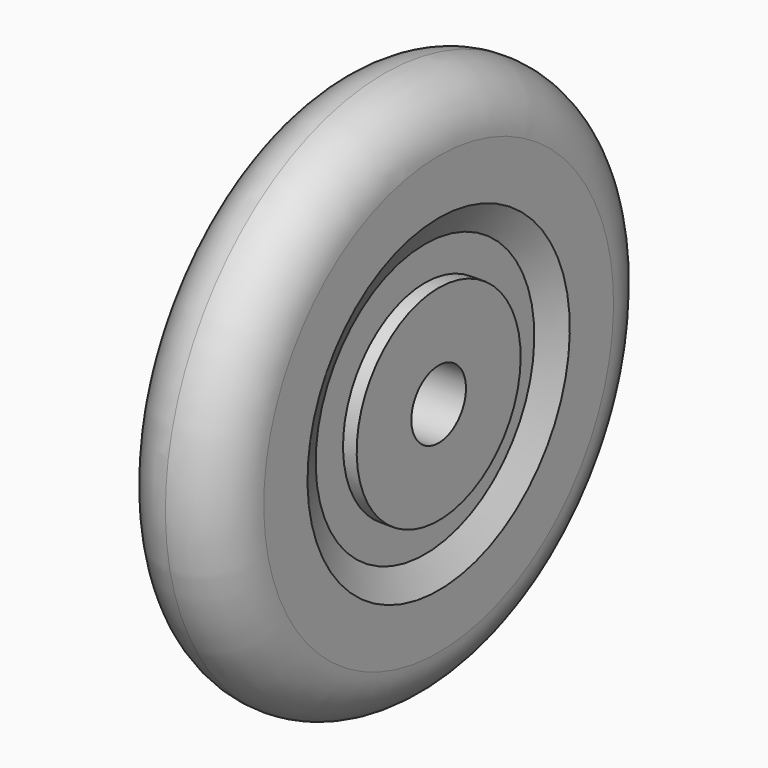
from build123d import *


with BuildPart() as f1:
    # F0 (on Front) → F1 (revolve)
    with BuildSketch(Plane.XZ):
        with BuildLine():
            Line((-12.7, 7.9375), (0, 7.9375))
            Line((0, 7.9375), (12.7, 7.9375))
            Line((12.7, 7.9375), (12.7, 23.8125))
            Line((12.7, 23.8125), (9.525, 23.8125))
            Line((9.525, 23.8125), (9.525, 31.75))
            Line((9.525, 31.75), (12.7, 38.1))
            Line((12.7, 38.1), (12.7, 50.8))
            ThreePointArc((12.7, 50.8), (8.980256, 59.780256), (0, 63.5))
            ThreePointArc((0, 63.5), (-8.980256, 59.780256), (-12.7, 50.8))
            Line((-12.7, 50.8), (-12.7, 38.1))
            Line((-12.7, 38.1), (-9.525, 31.75))
            Line((-9.525, 31.75), (-9.525, 23.8125))
            Line((-9.525, 23.8125), (-12.7, 23.8125))
            Line((-12.7, 23.8125), (-12.7, 7.9375))
        make_face()
    revolve(axis=Axis((-3.268924, 0, 0), (1, 0, 0)))


solid = f1.part
